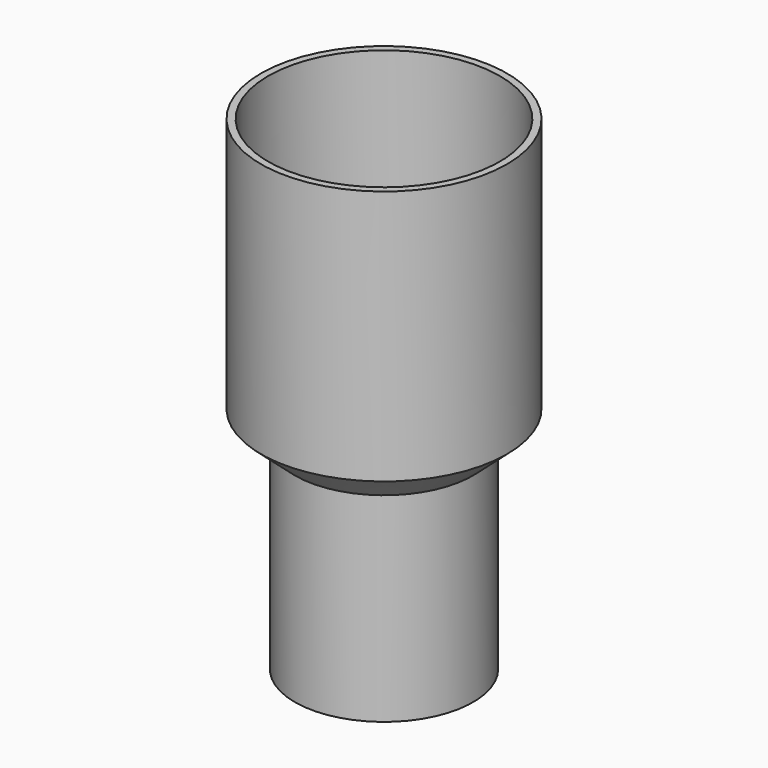
from build123d import *

# Parameters (mm, degrees)
F0_W     = 17.25
F0_H     = 35.7945342632
F0_W_2   = 12.5
F0_H_2   = 27.9797699204
F3_T     = -1
F2_R     = 11.5
F4_DEPTH = 40


with BuildPart() as f1:
    # F0 (on Front) → F1 (revolve)
    with BuildSketch(Plane.XZ):
        with Locations((-8.625, 17.8972671316)):
            Rectangle(F0_W, F0_H)
        Polygon((0, -4.1769962882), (0, 0), (-17.25, 0), (-12.5, -4.1769962882), align=None)
        with Locations((-6.25, -18.1668812483)):
            Rectangle(F0_W_2, F0_H_2)
    revolve(axis=Axis((0, 0, 1.8188840273), (0, 0, -1)))

    # F3
    f3_openings = [f1.faces().sort_by_distance(p)[0] for p in [
        (0, 0, 35.794534),
    ]]
    offset(amount=F3_T, openings=f3_openings, kind=Kind.INTERSECTION)

    # F2 (on face) → F4 (cut)
    with BuildSketch(Plane(origin=(0, 0, -32.1567662085), x_dir=(1, 0, 0), z_dir=(0, 0, -1))):
        Circle(F2_R)
    extrude(amount=-F4_DEPTH, mode=Mode.SUBTRACT)


solid = f1.part
